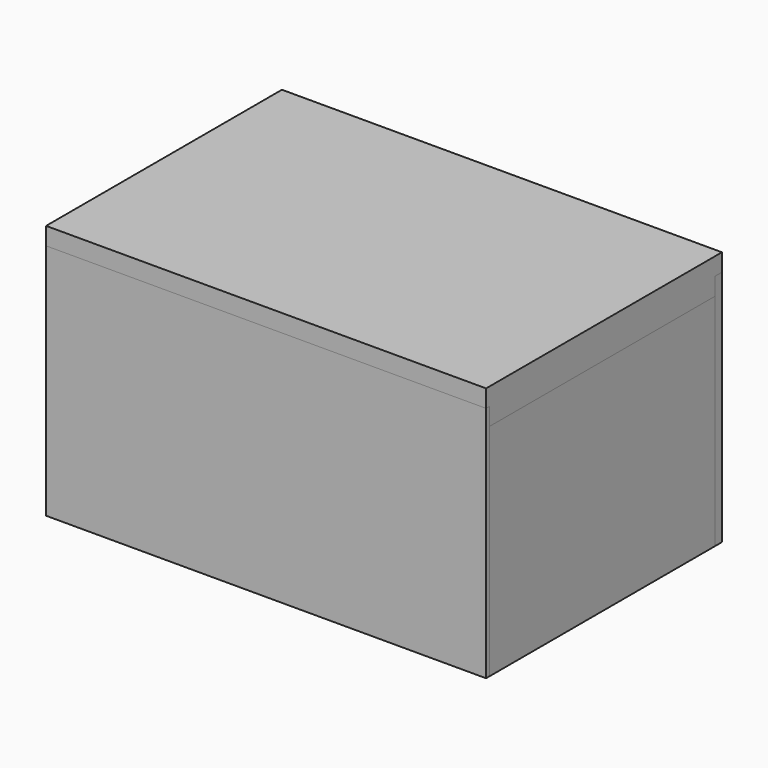
from build123d import *

# Parameters (mm, degrees)
F1_DEPTH  = 203.2
F0_W      = 304.8
F0_H      = 6.35
F0_W_2    = 12.7
F2_DEPTH  = 196.85
F5_W      = 317.5
F5_H      = 171.45
F5_W_2    = 304.7999936342
F5_H_2    = 158.7499936342
F6_DEPTH  = 3.175
F8_W      = 317.5
F8_H      = 171.45
F8_W_2    = 279.4
F8_H_2    = 127
F9_DEPTH  = 6.35
F10_DEPTH = 3.175
F11_W     = 317.5
F11_H     = 203.2
F12_DEPTH = 25.4
F14_W     = 190.5
F14_H     = 6.35
F14_H_2   = 19.05
F15_DEPTH = 317.5
F16_START = -6.35
F16_DEPTH = 304.8


with BuildPart() as f1:
    # F0 (on Front) → F1 (new body)
    with BuildSketch(Plane.XZ):
        Polygon((158.75, 85.725), (-158.75, 85.725), (-158.75, -79.375), (-158.75, -85.725), (158.75, -85.725), align=None)
        Polygon((-152.4, 53.975), (-152.4, 79.375), (152.4, 79.375), (152.4, 53.975), (152.4, 47.625), (152.4, 22.225), (152.4, 15.875), (152.4, -9.525), (152.4, -15.875), (152.4, -41.275), (152.4, -47.625), (152.4, -73.025), (152.4, -79.375), (139.7, -79.375), (-139.7, -79.375), (-152.4, -79.375), (-152.4, -73.025), (-152.4, -47.625), (-152.4, -41.275), (-152.4, -15.875), (-152.4, -9.525), (-152.4, 15.875), (-152.4, 22.225), (-152.4, 47.625), align=None, mode=Mode.SUBTRACT)
    extrude(amount=F1_DEPTH)

    # F0 (on Front) → F2 (join)
    with BuildSketch(Plane.XZ):
        with Locations((0, 50.8)):
            Rectangle(F0_W, F0_H)
        with Locations((-146.05, -12.7)):
            Rectangle(F0_W_2, F0_H)
        with Locations((-146.05, -44.45)):
            Rectangle(F0_W_2, F0_H)
        with Locations((-146.05, -76.2)):
            Rectangle(F0_W_2, F0_H)
        with Locations((146.05, -76.2)):
            Rectangle(F0_W_2, F0_H)
        with Locations((146.05, -44.45)):
            Rectangle(F0_W_2, F0_H)
        with Locations((146.05, -12.7)):
            Rectangle(F0_W_2, F0_H)
        with Locations((-146.05, 19.05)):
            Rectangle(F0_W_2, F0_H)
        with Locations((146.05, 19.05)):
            Rectangle(F0_W_2, F0_H)
    extrude(amount=F2_DEPTH)


with BuildPart() as f6:
    # F5 (on offset) → F6 (new body)
    with BuildSketch(Plane.XZ.offset(203.2)):
        Rectangle(F5_W, F5_H)
        Rectangle(F5_W_2, F5_H_2, mode=Mode.SUBTRACT)
        Rectangle(F5_W_2, F5_H_2)
    extrude(amount=F6_DEPTH)


with BuildPart() as f9:
    # F8 (on offset) → F9 (new body)
    with BuildSketch(Plane.XZ):
        Rectangle(F8_W, F8_H)
        with Locations((-0.4077010231, -15.875)):
            Rectangle(F8_W_2, F8_H_2, mode=Mode.SUBTRACT)
    extrude(amount=-F9_DEPTH)


with BuildPart() as f10:
    # F5 (on offset) → F10 (new body)
    with BuildSketch(Plane.XZ.offset(203.2)):
        Rectangle(F5_W_2, F5_H_2)
    extrude(amount=-F10_DEPTH)


with BuildPart() as f12_tool:
    # F11 (on offset) → F12 (new body)
    with BuildSketch(Plane.XY.offset(73.025)):
        with Locations((0, -101.6)):
            Rectangle(F11_W, F11_H)
    extrude(amount=F12_DEPTH)


with BuildPart() as f1_1:
    add(f1.part)

    # F12: cut by f12_tool
    add(f12_tool.part, mode=Mode.SUBTRACT)


with BuildPart() as f10_1:
    add(f10.part)

    # F12: cut by f12_tool
    add(f12_tool.part, mode=Mode.SUBTRACT)


with BuildPart() as f15:
    # F14 (on offset) → F15 (new body, through all)
    with BuildSketch(Plane(origin=(-158.75, 0, 0), x_dir=(0, -1, 0), z_dir=(-1, 0, 0))):
        Polygon((-6.35, 98.425), (-6.35, 85.725), (0, 85.725), (0, 73.025), (6.35, 73.025), (6.35, 92.075), (6.35, 98.425), align=None)
        with Locations((101.6, 95.25)):
            Rectangle(F14_W, F14_H)
        Polygon((206.375, 98.425), (196.85, 98.425), (196.85, 92.075), (196.85, 73.025), (203.2, 73.025), (203.2, 85.725), (206.375, 85.725), align=None)
        with Locations((101.6, 82.55)):
            Rectangle(F14_W, F14_H_2)
    extrude(amount=-F15_DEPTH)

    # F14 (on offset) → F16 (cut)
    with BuildSketch(Plane(origin=(-158.75, 0, 0), x_dir=(0, -1, 0), z_dir=(-1, 0, 0)).offset(F16_START)):
        with Locations((101.6, 82.55)):
            Rectangle(F14_W, F14_H_2)
    extrude(amount=-F16_DEPTH, mode=Mode.SUBTRACT)


solid = Compound([f6.part, f9.part, f1_1.part, f10_1.part, f15.part])
